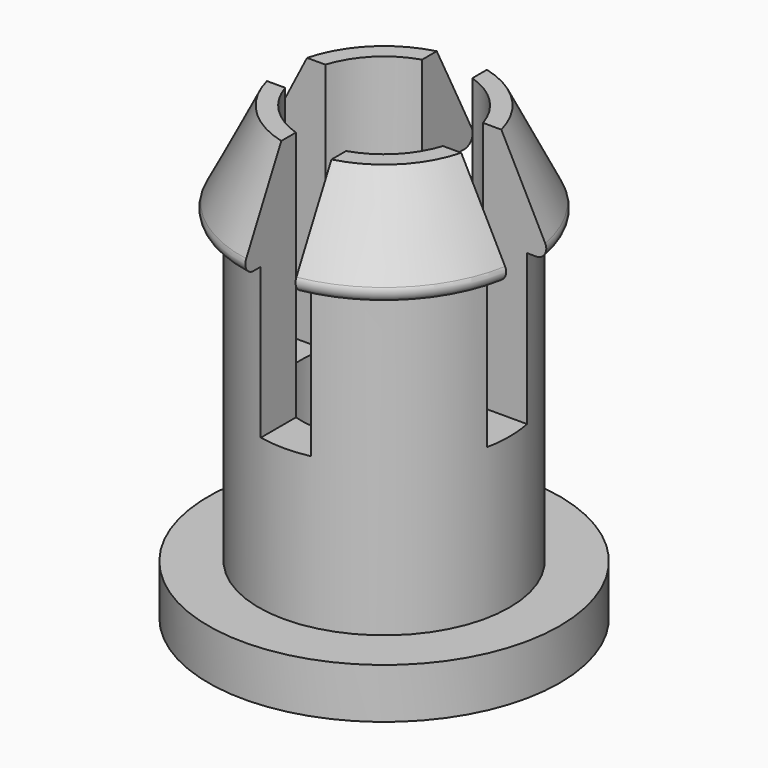
from build123d import *

# Parameters (mm, degrees)
BOX002_W               = 1
BOX002_H               = 10
BOX002_DEPTH           = 10
BOX003_W               = 1
BOX003_H               = 10
BOX003_DEPTH           = 10
BOX003_PLACEMENT_ANGLE = 90
CYLINDER013_R          = 1.65
CYLINDER013_DEPTH      = 14
CYLINDER011_R          = 2.5
CYLINDER011_DEPTH      = 7.5
CYLINDER012_R          = 3.5
CYLINDER012_DEPTH      = 1
FILLET002_R            = 0.2


with BuildPart() as cube002:
    # Box002 → Box002 (new body)
    with BuildSketch(Plane(origin=(-0.5, -5, 0), x_dir=(1, 0, 0), z_dir=(0, 0, 1))):
        with Locations((0.5, 5)):
            Rectangle(BOX002_W, BOX002_H)
    extrude(amount=BOX002_DEPTH)


with BuildPart() as fusion011:
    # Box003 → Box003 (new body)
    with BuildSketch(Plane.XY):
        with Locations((0.5, 5)):
            Rectangle(BOX003_W, BOX003_H)
    extrude(amount=BOX003_DEPTH)


with BuildPart() as fusion011_1:
    # Box003 placement: moved
    add(fusion011.part.moved(Location((5, -0.5, 0))).rotate(Axis((5, -0.5, 0), (0, 0, 1)), BOX003_PLACEMENT_ANGLE))

    # Fusion011: union Cube002
    add(cube002.part)


with BuildPart() as fusion011_2:
    # Fusion011 placement: moved
    add(fusion011_1.part.moved(Location((0, 0, 4))))


with BuildPart() as cylinder013:
    # Cylinder013 → Cylinder013 (new body)
    with BuildSketch(Plane.XY.offset(-1)):
        Circle(CYLINDER013_R)
    extrude(amount=CYLINDER013_DEPTH)


with BuildPart() as cylinder011:
    # Cylinder011 → Cylinder011 (new body)
    with BuildSketch(Plane.XY):
        Circle(CYLINDER011_R)
    extrude(amount=CYLINDER011_DEPTH)


with BuildPart() as cylinder012:
    # Cylinder012 → Cylinder012 (new body)
    with BuildSketch(Plane.XY):
        Circle(CYLINDER012_R)
    extrude(amount=CYLINDER012_DEPTH)


with BuildPart() as cut008:
    # Cone → Cone (revolve)
    with BuildSketch(Plane(origin=(0, 0, 7), x_dir=(1, 0, 0), z_dir=(0, -1, 0))):
        Polygon((0, 0), (3, 0), (2, 2), (0, 2), align=None)
    revolve(axis=Axis((0, 0, 7), (0, 0, 1)))

    # Fillet002
    fillet002_edges = [cut008.edges().sort_by_distance(p)[0] for p in [
        (-3, 0, 7),
    ]]
    fillet(fillet002_edges, radius=FILLET002_R)

    # Fusion012: union Cylinder011, Cylinder012
    add(cylinder011.part)
    add(cylinder012.part)

    # Cut007: cut Cylinder013
    add(cylinder013.part, mode=Mode.SUBTRACT)

    # Cut008: cut Fusion011
    add(fusion011_2.part, mode=Mode.SUBTRACT)


solid = cut008.part
